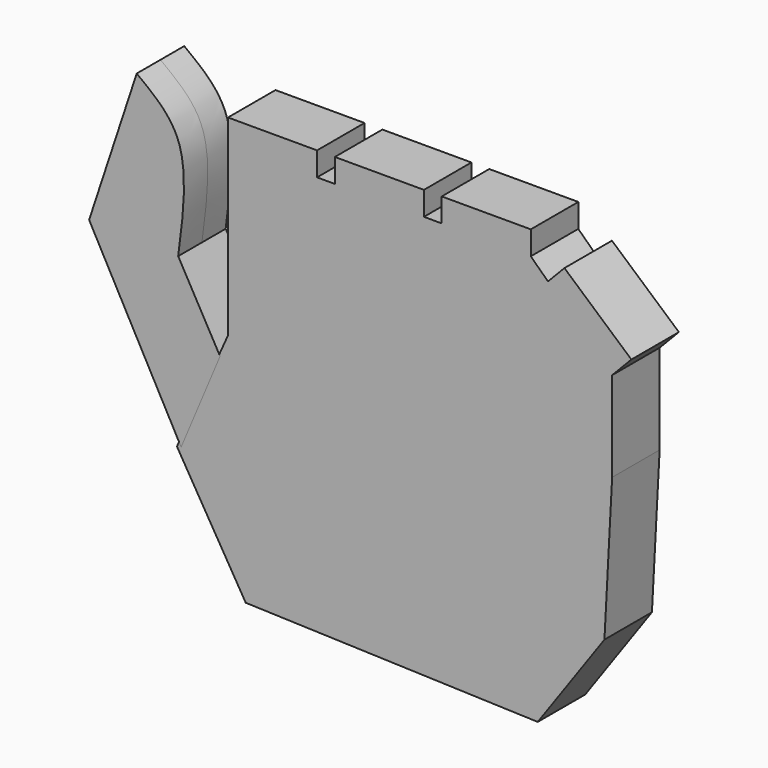
from build123d import *

# Parameters (mm, degrees)
F0_W     = 82.1682992279
F0_H     = 19.2402615459
F0_W_2   = 19.05
F0_H_2   = 5.08
F1_DEPTH = 6.35
F3_DEPTH = 6.35


with BuildPart() as f1:
    # F0 (on Front) → F1 (new body, symmetric)
    with BuildSketch(Plane.XZ):
        Polygon((-39.9771575426, 40.4332687695), (-39.9771575426, 23.7133380287), (42.1911416853, 23.7133380287), (28.4696710712, 36.8998015631), (24.7928424574, 40.4332687695), (5.7428424574, 40.4332687695), (1.9328424574, 40.4332687695), (-17.1171575426, 40.4332687695), (-20.9271575426, 40.4332687695), align=None)
        with Locations((1.1069920714, 14.0932072558)):
            Rectangle(F0_W, F0_H)
        Polygon((28.4696710712, 36.8998015631), (42.1911416853, 23.7133380287), (46.3075631456, 27.9967727764), (31.9896564904, 40.5626014006), align=None)
        Polygon((42.1911416853, 4.4730764828), (-39.9771575426, 4.4730764828), (40.5453704298, -26.6239494085), align=None)
        Polygon((40.5453704298, -26.6239494085), (-39.9771575426, 4.4730764828), (-50.8951619267, -19.9909545481), (-36.1816734076, -44.6315854788), (26.2808166444, -46.7572510242), align=None)
        with Locations((-30.4521575426, 42.9732687695)):
            Rectangle(F0_W_2, F0_H_2)
        with Locations((15.2678424574, 42.9732687695)):
            Rectangle(F0_W_2, F0_H_2)
        with Locations((-7.5921575426, 42.9732687695)):
            Rectangle(F0_W_2, F0_H_2)
    extrude(amount=F1_DEPTH, both=True)


with BuildPart() as f3:
    # F2 (on Front) → F3 (new body, symmetric)
    with BuildSketch(Plane.XZ):
        with BuildLine():
            Line((-69.6777667551, 16.5681660283), (-49.9989315758, -19.8159819271))
            Line((-49.9989315758, -19.8159819271), (-41.6758551755, 0))
            Line((-41.6758551755, 0), (-50.6277667551, 15.9329831097))
            add(Edge.make_bspline(
                [(-50.6277667551, 15.9329831097), (-49.5549233414, 24.0818436429), (-47.6495421422, 38.5543057529), (-55.8960921603, 44.7421777122), (-59.4993419945, 47.4459081888)],
                knots=[0, 0, 0, 0, 0.5630597248, 1, 1, 1, 1], degree=3))
            Line((-59.4993419945, 47.4459081888), (-69.6777667551, 16.5681660283))
        make_face()
    extrude(amount=F3_DEPTH, both=True)


solid = Compound([f1.part, f3.part])
